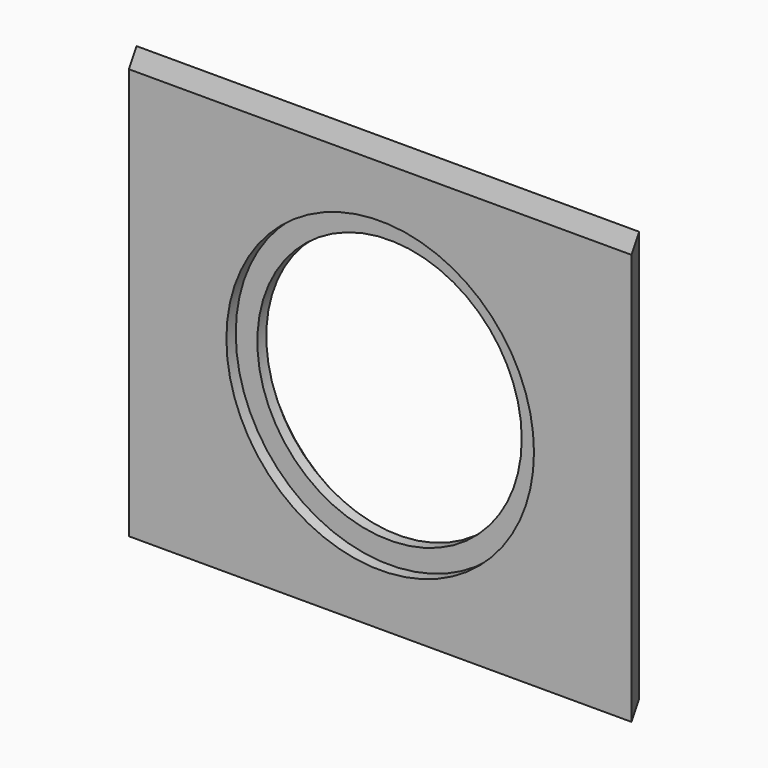
from build123d import *

# Parameters (mm, degrees)
F0_W     = 290.3982
F0_H     = 228.6
F1_DEPTH = 19.05
F3_DEPTH = 228.601
F4_R     = 85.5
F5_DEPTH = 6.5
F6_R     = 73.5
F7_DEPTH = 12.551
F8_SIZE  = 6.35


with BuildPart() as f1:
    # F0 (on Front) → F1 (new body)
    with BuildSketch(Plane.XZ):
        Rectangle(F0_W, F0_H)
    extrude(amount=F1_DEPTH)

    # F2 (on face) → F3 (cut, through all)
    with BuildSketch(Plane.XY.offset(114.3)):
        Polygon((-134.200577, -19.05), (-145.1991, 0), (-145.1991, -19.05), align=None)
        Polygon((134.200577, 0), (145.1991, -19.05), (145.1991, 0), align=None)
    extrude(amount=-F3_DEPTH, mode=Mode.SUBTRACT)

    # F4 (on face) → F5 (cut)
    with BuildSketch(Plane.XZ.offset(19.05)):
        with Locations((5.499261, 0)):
            Circle(F4_R)
    extrude(amount=-F5_DEPTH, mode=Mode.SUBTRACT)

    # F6 (on face) → F7 (cut, through all)
    with BuildSketch(Plane.XZ.offset(12.55)):
        with Locations((5.499261, 0)):
            Circle(F6_R)
    extrude(amount=-F7_DEPTH, mode=Mode.SUBTRACT)

    # F8
    f8_edges = [f1.edges().sort_by_distance(p)[0] for p in [
        (-68.000739, 0, 0),
    ]]
    chamfer(f8_edges, length=F8_SIZE)


solid = f1.part
